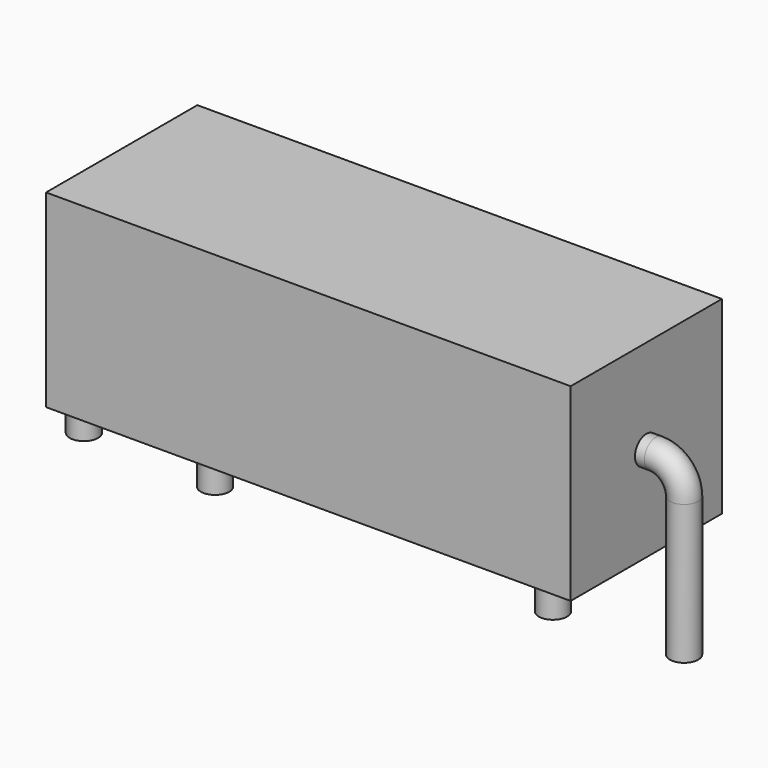
from build123d import *

# Parameters (mm, degrees)
SKETCH_R     = 0.6
SKETCH002_W  = 22.2
SKETCH002_H  = 8
PAD_DEPTH    = 4
SKETCH004_R  = 0.6
PAD001_DEPTH = 3


with BuildPart() as sweep_body:
    # Sweep: sweep along a path in Sketch001
    with BuildLine(Plane.XZ) as sweep_path:
        Line((0, -3), (0, 2.9))
        ThreePointArc((0, 2.9), (0.351476, 3.748532), (1.200011, 4.1))
        Line((1.200011, 4.1), (24.2, 4.1))
        ThreePointArc((24.2, 4.1), (25.048528, 3.748528), (25.4, 2.9))
        Line((25.4, 2.9), (25.4, -3))
    # Sketch → Sweep (sweep)
    with BuildSketch(Plane.XY.offset(-2)):
        Circle(SKETCH_R)
    sweep(path=sweep_path.line)


with BuildPart() as pad:
    # Sketch002 → Pad (new body, symmetric)
    with BuildSketch(Plane.XZ):
        with Locations((12.7, 4.1)):
            Rectangle(SKETCH002_W, SKETCH002_H)
    extrude(amount=PAD_DEPTH, both=True)


with BuildPart() as pad001:
    # Sketch004 → Pad001 (new body, symmetric)
    with BuildSketch(Plane.XY.offset(-0.2)):
        with Locations((5.55, 0)):
            Circle(SKETCH004_R)
        with Locations((19.85, 0)):
            Circle(SKETCH004_R)
    extrude(amount=PAD001_DEPTH, both=True)


solid = Compound([sweep_body.part, pad.part, pad001.part])
